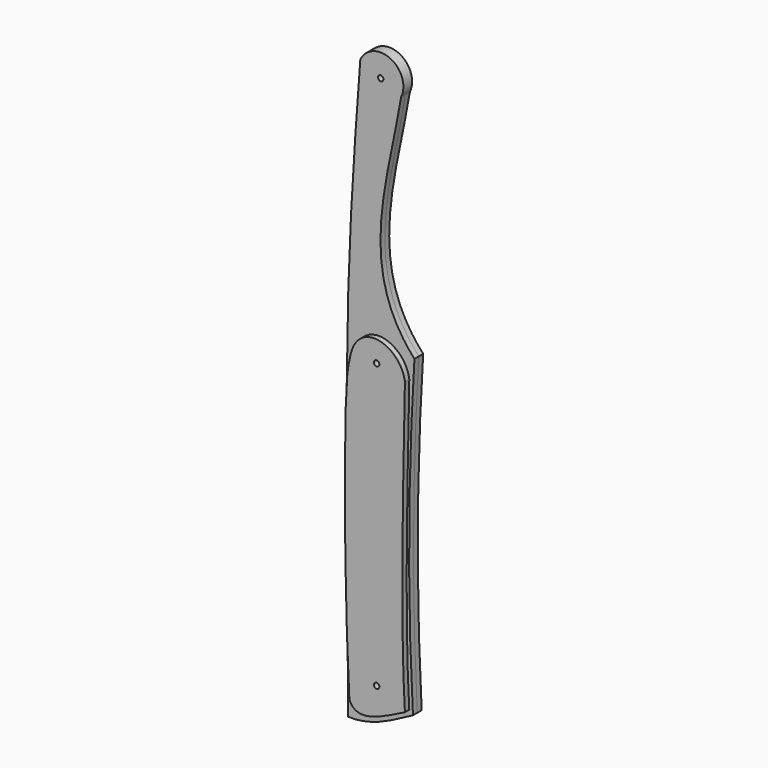
from build123d import *

# Parameters (mm, degrees)
F0_R     = 0.79375
F1_DEPTH = 1.5875
F3_DEPTH = 3.175
F4_R     = 0.79375
F5_DEPTH = 12.7


with BuildPart() as f1:
    # F0 (on Front) → F1 (new body, symmetric)
    with BuildSketch(Plane.XZ):
        with BuildLine():
            add(Edge.make_bspline(
                [(-34.3502052128, -116.479113698), (-34.7983030784, -77.7177502952), (-35.5826450176, -9.87060067), (-32.2482955411, 34.1522766481), (-30.8188740164, 53.0246980488)],
                knots=[0, 0, 0, 0, 0.5713042275, 1, 1, 1, 1], degree=3))
            add(Edge.make_bspline(
                [(-15.5250038952, -109.9904626608), (-22.6352680475, -113.8694807887), (-28.0549824238, -116.7387440801), (-34.3502052128, -116.479113698)],
                knots=[0, 0, 0, 0, 19.9120766605, 19.9120766605, 19.9120766605, 19.9120766605], degree=3))
            add(Edge.make_bspline(
                [(-15.5250038952, -109.9904626608), (-17.3721220344, -75.9345591068), (-16.7300663888, -45.1156832278), (-15.0884054601, -18.5649804771)],
                knots=[0, 0, 0, 0, 91.4265246562, 91.4265246562, 91.4265246562, 91.4265246562], degree=3))
            add(Edge.make_bspline(
                [(-18.9407654107, 47.2461543977), (-22.7931253612, 24.1320021451), (-32.1029946208, 0), (-15.0884054601, -18.5649804771)],
                knots=[0, 0, 0, 0, 65.9237904758, 65.9237904758, 65.9237904758, 65.9237904758], degree=3))
            ThreePointArc((-18.9407654107, 47.2461543977), (-22.0177139024, 56.0186393162), (-30.8188740164, 53.0246980488))
        make_face()
        with Locations((-24.9071146526, 50.0793200016)):
            Circle(F0_R, mode=Mode.SUBTRACT)
    extrude(amount=F1_DEPTH, both=True)


with BuildPart() as f3:
    # F2 (on Front) → F3 (new body)
    with BuildSketch(Plane.XZ):
        with BuildLine():
            add(Edge.make_bspline(
                [(-16.5921431035, -108.8966056705), (-20.8282601088, -110.7499077916), (-30.3135253489, -117.0494705439), (-32.7472798526, -110.8714863658)],
                knots=[0, 0, 0, 0, 16.2753985249, 16.2753985249, 16.2753985249, 16.2753985249], degree=3))
            add(Edge.make_bspline(
                [(-16.5921431035, -24.2616645992), (-16.5921431035, -32.3270261288), (-18.2770490646, -81.5637037158), (-16.5921431035, -108.8966056705)],
                knots=[0, 0, 0, 0, 84.6349410713, 84.6349410713, 84.6349410713, 84.6349410713], degree=3))
            add(Edge.make_bspline(
                [(-32.7472798526, -24.2616645992), (-31.158734113, -11.5533126518), (-17.9159287363, -15.2599150315), (-16.5921431035, -24.2616645992)],
                knots=[0, 0, 0, 0, 16.1551367491, 16.1551367491, 16.1551367491, 16.1551367491], degree=3))
            add(Edge.make_bspline(
                [(-32.7472798526, -110.8714863658), (-34.335821867, -82.277700305), (-34.6743278205, -29.247187078), (-32.7472798526, -24.2616645992)],
                knots=[0, 0, 0, 0, 86.6098217666, 86.6098217666, 86.6098217666, 86.6098217666], degree=3))
        make_face()
    extrude(amount=F3_DEPTH)


with BuildPart() as f5_tool:
    # F4 (on face) → F5 (new body, symmetric)
    with BuildSketch(Plane(origin=(0, 1.5875, 0), x_dir=(-1, 0, 0), z_dir=(0, 1, 0))):
        with Locations((24.8052769176, -22.2538337111)):
            Circle(F4_R)
        with Locations((24.8107649386, -104.7833412886)):
            Circle(F4_R)
    extrude(amount=F5_DEPTH, both=True)


with BuildPart() as f1_1:
    add(f1.part)

    # F5: cut by f5_tool
    add(f5_tool.part, mode=Mode.SUBTRACT)


with BuildPart() as f3_1:
    add(f3.part)

    # F5: cut by f5_tool
    add(f5_tool.part, mode=Mode.SUBTRACT)


solid = Compound([f1_1.part, f3_1.part])
